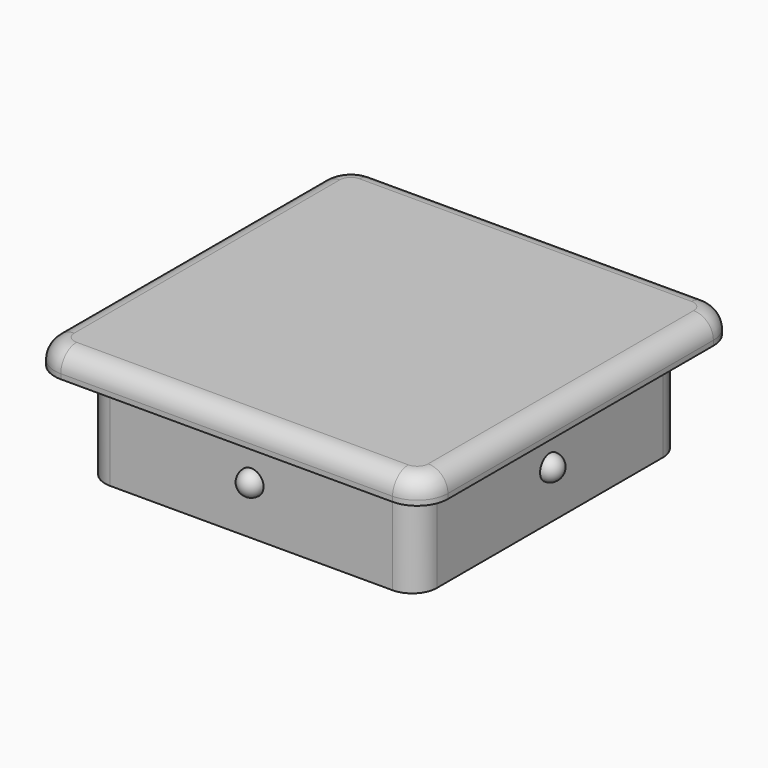
from build123d import *

# Parameters (mm, degrees)
PAD_DEPTH          = 4
PAD001_DEPTH       = 1
FILLET_R           = 0.8
POLARPATTERN_COUNT = 4
POCKET_DEPTH       = 3.5


with BuildPart() as part:
    # Sketch → Pad (new body)
    with BuildSketch(Plane.XY):
        with BuildLine():
            Line((5.75, 6.75), (-5.75, 6.75))
            ThreePointArc((-5.75, 6.75), (-6.457107, 6.457107), (-6.75, 5.75))
            Line((-6.75, 5.75), (-6.75, -5.75))
            ThreePointArc((-6.75, -5.75), (-6.457107, -6.457107), (-5.75, -6.75))
            Line((-5.75, -6.75), (5.75, -6.75))
            ThreePointArc((5.75, -6.75), (6.457107, -6.457107), (6.75, -5.75))
            Line((6.75, -5.75), (6.75, 5.75))
            ThreePointArc((6.75, 5.75), (6.457107, 6.457107), (5.75, 6.75))
        make_face()
    extrude(amount=PAD_DEPTH)

    # Sketch001 (on Face10 of Pad) → Pad001 (join)
    with BuildSketch(Plane.XY.offset(4)):
        with BuildLine():
            Line((6.75, 8), (-6.75, 8))
            ThreePointArc((-6.75, 8), (-7.633883, 7.633883), (-8, 6.75))
            Line((-8, 6.75), (-8, -6.75))
            ThreePointArc((-8, -6.75), (-7.633883, -7.633883), (-6.75, -8))
            Line((-6.75, -8), (6.75, -8))
            ThreePointArc((6.75, -8), (7.633883, -7.633883), (8, -6.75))
            Line((8, -6.75), (8, 6.75))
            ThreePointArc((8, 6.75), (7.633883, 7.633883), (6.75, 8))
        make_face()
    extrude(amount=PAD001_DEPTH)

    # Fillet
    fillet_edges = [part.edges().sort_by_distance(p)[0] for p in [
        (0, -8, 5),
        (-7.633883, -7.633883, 5),
        (-8, 0, 5),
        (-7.633883, 7.633883, 5),
        (0, 8, 5),
        (7.633883, 7.633883, 5),
        (8, 0, 5),
        (7.633883, -7.633883, 5),
    ]]
    fillet(fillet_edges, radius=FILLET_R)

    # Sphere → Sphere (revolve)
    with BuildSketch(Plane(origin=(0, -6.75, 2), x_dir=(1, 0, 0), z_dir=(0, -1, 0))):
        with BuildLine():
            ThreePointArc((0, -0.5), (0.5, 0), (0, 0.5))
            Line((0, 0.5), (0, -0.5))
        make_face()
    sphere = revolve(axis=Axis((0, -6.75, 2), (0, 0, 1)))

    # PolarPattern: Sphere ×4 about axis
    polarpattern_axis = Axis((0, 0, 0), (0, 0, 1))
    for i in range(1, POLARPATTERN_COUNT):
        add(sphere.rotate(polarpattern_axis, i * 360 / POLARPATTERN_COUNT))

    # Sketch004 (on Face27 of PolarPattern) → Pocket (cut)
    with BuildSketch(Plane(origin=(0, -6.75, 0), x_dir=(1, 0, 0), z_dir=(0, 0, -1))):
        with BuildLine():
            Line((-5.75, -3), (-5.75, -10.5))
            ThreePointArc((-5.75, -10.5), (-5.164214, -11.914214), (-3.75, -12.5))
            Line((-3.75, -12.5), (3.75, -12.5))
            ThreePointArc((3.75, -12.5), (5.164214, -11.914214), (5.75, -10.5))
            Line((5.75, -10.5), (5.75, -3))
            ThreePointArc((5.75, -3), (5.164214, -1.585786), (3.75, -1))
            Line((3.75, -1), (-3.75, -1))
            ThreePointArc((-3.75, -1), (-5.164214, -1.585786), (-5.75, -3))
        make_face()
    extrude(amount=-POCKET_DEPTH, mode=Mode.SUBTRACT)


solid = part.part
